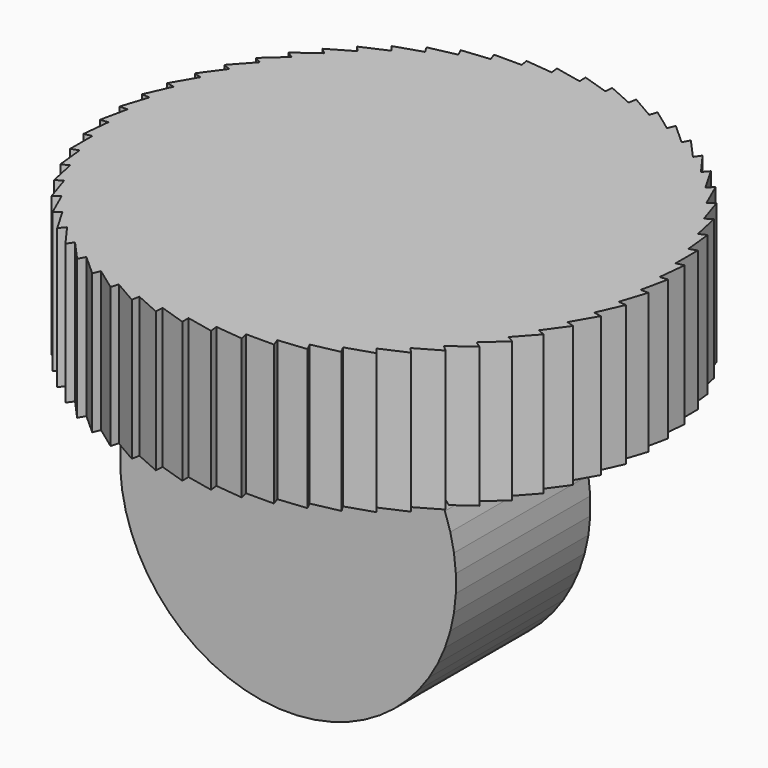
from build123d import *

# Parameters (mm, degrees)
F1_DEPTH = 254
F3_DEPTH = 304.8


with BuildPart() as f1:
    # F0 (on Top) → F1 (new body)
    with BuildSketch(Plane.XY):
        Polygon((0, 0), (444.591701, 105.393128), (444.591701, 156.008646), (431.139599, 151.288261), align=None)
        Polygon((458.463525, 108.681527), (444.591701, 105.393128), (0, 0), (453.172763, 58.343286), align=None)
        Polygon((412.963842, 195.525847), (0, 0), (431.139599, 151.288261), (425.848837, 201.626501), align=None)
        Polygon((390.263567, 237.621212), (0, 0), (412.963842, 195.525847), (402.440284, 245.035295), align=None)
        Polygon((363.287482, 277.113149), (0, 0), (390.263567, 237.621212), (374.622512, 285.75943), align=None)
        Polygon((332.331143, 313.568977), (0, 0), (363.287482, 277.113149), (342.700296, 323.352726), align=None)
        Polygon((297.733715, 346.589277), (0, 0), (332.331143, 313.568977), (307.023384, 357.403301), align=None)
        Polygon((259.874255, 375.812272), (0, 0), (297.733715, 346.589277), (267.98266, 387.538091), align=None)
        Polygon((219.167557, 400.91779), (0, 0), (259.874255, 375.812272), (226.005862, 413.426932), align=None)
        Polygon((176.059614, 421.630768), (0, 0), (219.167557, 400.91779), (181.552897, 434.786182), align=None)
        Polygon((131.022724, 437.724271), (0, 0), (176.059614, 421.630768), (135.110799, 451.381823), align=None)
        Polygon((84.550323, 449.021976), (0, 0), (131.022724, 437.724271), (87.1884, 463.03203), align=None)
        Polygon((37.15157, 455.400102), (0, 0), (84.550323, 449.021976), (38.310746, 469.609162), align=None)
        Polygon((-10.654223, 456.788769), (0, 0), (37.15157, 455.400102), (-10.986648, 471.041157), align=None)
        Polygon((-58.343286, 453.172763), (0, 0), (-10.654223, 456.788769), (-60.16367, 467.312327), align=None)
        Polygon((-105.393128, 444.591701), (0, 0), (-58.343286, 453.172763), (-108.681527, 458.463525), align=None)
        Polygon((-151.288261, 431.139599), (0, 0), (-105.393128, 444.591701), (-156.008646, 444.591701), align=None)
        Polygon((-195.525847, 412.963842), (0, 0), (-151.288261, 431.139599), (-201.626501, 425.848837), align=None)
        Polygon((-237.621212, 390.263567), (0, 0), (-195.525847, 412.963842), (-245.035295, 402.440284), align=None)
        Polygon((-277.113149, 363.287482), (0, 0), (-237.621212, 390.263567), (-285.75943, 374.622512), align=None)
        Polygon((-313.568977, 332.331143), (0, 0), (-277.113149, 363.287482), (-323.352726, 342.700296), align=None)
        Polygon((-346.589277, 297.733715), (0, 0), (-313.568977, 332.331143), (-357.403301, 307.023384), align=None)
        Polygon((-375.812272, 259.874255), (0, 0), (-346.589277, 297.733715), (-387.538091, 267.98266), align=None)
        Polygon((-400.91779, 219.167557), (0, 0), (-375.812272, 259.874255), (-413.426932, 226.005862), align=None)
        Polygon((-421.630768, 176.059614), (0, 0), (-400.91779, 219.167557), (-434.786182, 181.552897), align=None)
        Polygon((-437.724271, 131.022724), (0, 0), (-421.630768, 176.059614), (-451.381823, 135.110799), align=None)
        Polygon((-449.021976, 84.550323), (0, 0), (-437.724271, 131.022724), (-463.03203, 87.1884), align=None)
        Polygon((-455.400102, 37.15157), (0, 0), (-449.021976, 84.550323), (-469.609162, 38.310746), align=None)
        Polygon((-456.788769, -10.654223), (0, 0), (-455.400102, 37.15157), (-471.041157, -10.986648), align=None)
        Polygon((-453.172763, -58.343286), (0, 0), (-456.788769, -10.654223), (-467.312327, -60.16367), align=None)
        Polygon((-444.591701, -105.393128), (0, 0), (-453.172763, -58.343286), (-458.463525, -108.681527), align=None)
        Polygon((-431.139599, -151.288261), (0, 0), (-444.591701, -105.393128), (-444.591701, -156.008646), align=None)
        Polygon((-412.963842, -195.525847), (0, 0), (-431.139599, -151.288261), (-425.848837, -201.626501), align=None)
        Polygon((-390.263567, -237.621212), (0, 0), (-412.963842, -195.525847), (-402.440284, -245.035295), align=None)
        Polygon((-363.287482, -277.113149), (0, 0), (-390.263567, -237.621212), (-374.622512, -285.75943), align=None)
        Polygon((-332.331143, -313.568977), (0, 0), (-363.287482, -277.113149), (-342.700296, -323.352726), align=None)
        Polygon((-297.733715, -346.589277), (0, 0), (-332.331143, -313.568977), (-307.023384, -357.403301), align=None)
        Polygon((-259.874255, -375.812272), (0, 0), (-297.733715, -346.589277), (-267.98266, -387.538091), align=None)
        Polygon((-219.167557, -400.91779), (0, 0), (-259.874255, -375.812272), (-226.005862, -413.426932), align=None)
        Polygon((-176.059614, -421.630768), (0, 0), (-219.167557, -400.91779), (-181.552897, -434.786182), align=None)
        Polygon((-131.022724, -437.724271), (0, 0), (-176.059614, -421.630768), (-135.110799, -451.381823), align=None)
        Polygon((-84.550323, -449.021976), (0, 0), (-131.022724, -437.724271), (-87.1884, -463.03203), align=None)
        Polygon((-37.15157, -455.400102), (0, 0), (-84.550323, -449.021976), (-38.310746, -469.609162), align=None)
        Polygon((10.654223, -456.788769), (0, 0), (-37.15157, -455.400102), (10.986648, -471.041157), align=None)
        Polygon((58.343286, -453.172763), (0, 0), (10.654223, -456.788769), (60.16367, -467.312327), align=None)
        Polygon((105.393128, -444.591701), (0, 0), (58.343286, -453.172763), (108.681527, -458.463525), align=None)
        Polygon((151.288261, -431.139599), (0, 0), (105.393128, -444.591701), (156.008646, -444.591701), align=None)
        Polygon((195.525847, -412.963842), (0, 0), (151.288261, -431.139599), (201.626501, -425.848837), align=None)
        Polygon((237.621212, -390.263567), (0, 0), (195.525847, -412.963842), (245.035295, -402.440284), align=None)
        Polygon((277.113149, -363.287482), (0, 0), (237.621212, -390.263567), (285.75943, -374.622512), align=None)
        Polygon((313.568977, -332.331143), (0, 0), (277.113149, -363.287482), (323.352726, -342.700296), align=None)
        Polygon((346.589277, -297.733715), (0, 0), (313.568977, -332.331143), (357.403301, -307.023384), align=None)
        Polygon((375.812272, -259.874255), (0, 0), (346.589277, -297.733715), (387.538091, -267.98266), align=None)
        Polygon((400.91779, -219.167557), (0, 0), (375.812272, -259.874255), (413.426932, -226.005862), align=None)
        Polygon((421.630768, -176.059614), (0, 0), (400.91779, -219.167557), (434.786182, -181.552897), align=None)
        Polygon((437.724271, -131.022724), (0, 0), (421.630768, -176.059614), (451.381823, -135.110799), align=None)
        Polygon((449.021976, -84.550323), (0, 0), (437.724271, -131.022724), (463.03203, -87.1884), align=None)
        Polygon((455.400102, -37.15157), (0, 0), (449.021976, -84.550323), (469.609162, -38.310746), align=None)
        Polygon((456.788769, 10.654223), (0, 0), (455.400102, -37.15157), (471.041157, 10.986648), align=None)
        Polygon((453.172763, 58.343286), (0, 0), (456.788769, 10.654223), (467.312327, 60.16367), align=None)
    extrude(amount=F1_DEPTH)


with BuildPart() as f3:
    # F2 (on Front) → F3 (new body)
    with BuildSketch(Plane.XZ):
        Polygon((374.159187, -129.499688), (374.159187, -97.595689), (69.776904, -113.547688), align=None)
        Polygon((69.776904, -113.547688), (374.159187, -97.595689), (370.824311, -65.866464), align=None)
        Polygon((370.824311, -161.228913), (374.159187, -129.499688), (69.776904, -113.547688), align=None)
        Polygon((364.191096, -34.659644), (69.776904, -113.547688), (370.824311, -65.866464), align=None)
        Polygon((354.332218, -4.317137), (69.776904, -113.547688), (364.191096, -34.659644), align=None)
        Polygon((341.355693, 24.828616), (69.776904, -113.547688), (354.332218, -4.317137), align=None)
        Polygon((325.403693, 52.458289), (69.776904, -113.547688), (341.355693, 24.828616), align=None)
        Polygon((306.650993, 78.269167), (69.776904, -113.547688), (325.403693, 52.458289), align=None)
        Polygon((285.303051, 101.978458), (69.776904, -113.547688), (306.650993, 78.269167), align=None)
        Polygon((261.59376, 123.326401), (69.776904, -113.547688), (285.303051, 101.978458), align=None)
        Polygon((235.782882, 142.079101), (69.776904, -113.547688), (261.59376, 123.326401), align=None)
        Polygon((208.153209, 158.0311), (69.776904, -113.547688), (235.782882, 142.079101), align=None)
        Polygon((179.007455, 171.007626), (69.776904, -113.547688), (208.153209, 158.0311), align=None)
        Polygon((148.664949, 180.866503), (69.776904, -113.547688), (179.007455, 171.007626), align=None)
        Polygon((117.458129, 187.499718), (69.776904, -113.547688), (148.664949, 180.866503), align=None)
        Polygon((85.728904, 190.834594), (69.776904, -113.547688), (117.458129, 187.499718), align=None)
        Polygon((53.824905, 190.834594), (69.776904, -113.547688), (85.728904, 190.834594), align=None)
        Polygon((22.095679, 187.499718), (69.776904, -113.547688), (53.824905, 190.834594), align=None)
        Polygon((-9.111141, 180.866503), (69.776904, -113.547688), (22.095679, 187.499718), align=None)
        Polygon((-39.453647, 171.007626), (69.776904, -113.547688), (-9.111141, 180.866503), align=None)
        Polygon((-68.5994, 158.0311), (69.776904, -113.547688), (-39.453647, 171.007626), align=None)
        Polygon((-96.229074, 142.079101), (69.776904, -113.547688), (-68.5994, 158.0311), align=None)
        Polygon((-122.039951, 123.326401), (69.776904, -113.547688), (-96.229074, 142.079101), align=None)
        Polygon((-145.749243, 101.978458), (69.776904, -113.547688), (-122.039951, 123.326401), align=None)
        Polygon((-167.097185, 78.269167), (69.776904, -113.547688), (-145.749243, 101.978458), align=None)
        Polygon((-185.849885, 52.458289), (69.776904, -113.547688), (-167.097185, 78.269167), align=None)
        Polygon((-201.801884, 24.828616), (69.776904, -113.547688), (-185.849885, 52.458289), align=None)
        Polygon((-214.77841, -4.317137), (69.776904, -113.547688), (-201.801884, 24.828616), align=None)
        Polygon((-224.637288, -34.659644), (69.776904, -113.547688), (-214.77841, -4.317137), align=None)
        Polygon((-231.270502, -65.866464), (69.776904, -113.547688), (-224.637288, -34.659644), align=None)
        Polygon((-234.605378, -97.595689), (69.776904, -113.547688), (-231.270502, -65.866464), align=None)
        Polygon((-234.605378, -129.499688), (69.776904, -113.547688), (-234.605378, -97.595689), align=None)
        Polygon((-231.270502, -161.228913), (69.776904, -113.547688), (-234.605378, -129.499688), align=None)
        Polygon((-224.637288, -192.435733), (69.776904, -113.547688), (-231.270502, -161.228913), align=None)
        Polygon((-214.77841, -222.778239), (69.776904, -113.547688), (-224.637288, -192.435733), align=None)
        Polygon((-201.801884, -251.923993), (69.776904, -113.547688), (-214.77841, -222.778239), align=None)
        Polygon((-185.849885, -279.553666), (69.776904, -113.547688), (-201.801884, -251.923993), align=None)
        Polygon((-167.097185, -305.364544), (69.776904, -113.547688), (-185.849885, -279.553666), align=None)
        Polygon((-145.749243, -329.073835), (69.776904, -113.547688), (-167.097185, -305.364544), align=None)
        Polygon((-122.039951, -350.421778), (69.776904, -113.547688), (-145.749243, -329.073835), align=None)
        Polygon((-96.229074, -369.174478), (69.776904, -113.547688), (-122.039951, -350.421778), align=None)
        Polygon((-68.5994, -385.126477), (69.776904, -113.547688), (-96.229074, -369.174478), align=None)
        Polygon((-39.453647, -398.103002), (69.776904, -113.547688), (-68.5994, -385.126477), align=None)
        Polygon((-9.111141, -407.96188), (69.776904, -113.547688), (-39.453647, -398.103002), align=None)
        Polygon((22.095679, -414.595095), (69.776904, -113.547688), (-9.111141, -407.96188), align=None)
        Polygon((53.824905, -417.929971), (69.776904, -113.547688), (22.095679, -414.595095), align=None)
        Polygon((85.728904, -417.929971), (69.776904, -113.547688), (53.824905, -417.929971), align=None)
        Polygon((117.458129, -414.595095), (69.776904, -113.547688), (85.728904, -417.929971), align=None)
        Polygon((148.664949, -407.96188), (69.776904, -113.547688), (117.458129, -414.595095), align=None)
        Polygon((179.007455, -398.103002), (69.776904, -113.547688), (148.664949, -407.96188), align=None)
        Polygon((208.153209, -385.126477), (69.776904, -113.547688), (179.007455, -398.103002), align=None)
        Polygon((235.782882, -369.174478), (69.776904, -113.547688), (208.153209, -385.126477), align=None)
        Polygon((261.59376, -350.421778), (69.776904, -113.547688), (235.782882, -369.174478), align=None)
        Polygon((285.303051, -329.073835), (69.776904, -113.547688), (261.59376, -350.421778), align=None)
        Polygon((306.650993, -305.364544), (69.776904, -113.547688), (285.303051, -329.073835), align=None)
        Polygon((325.403693, -279.553666), (69.776904, -113.547688), (306.650993, -305.364544), align=None)
        Polygon((341.355693, -251.923993), (69.776904, -113.547688), (325.403693, -279.553666), align=None)
        Polygon((354.332218, -222.778239), (69.776904, -113.547688), (341.355693, -251.923993), align=None)
        Polygon((364.191096, -192.435733), (69.776904, -113.547688), (354.332218, -222.778239), align=None)
        Polygon((370.824311, -161.228913), (69.776904, -113.547688), (364.191096, -192.435733), align=None)
    extrude(amount=F3_DEPTH)


solid = Compound([f1.part, f3.part])
